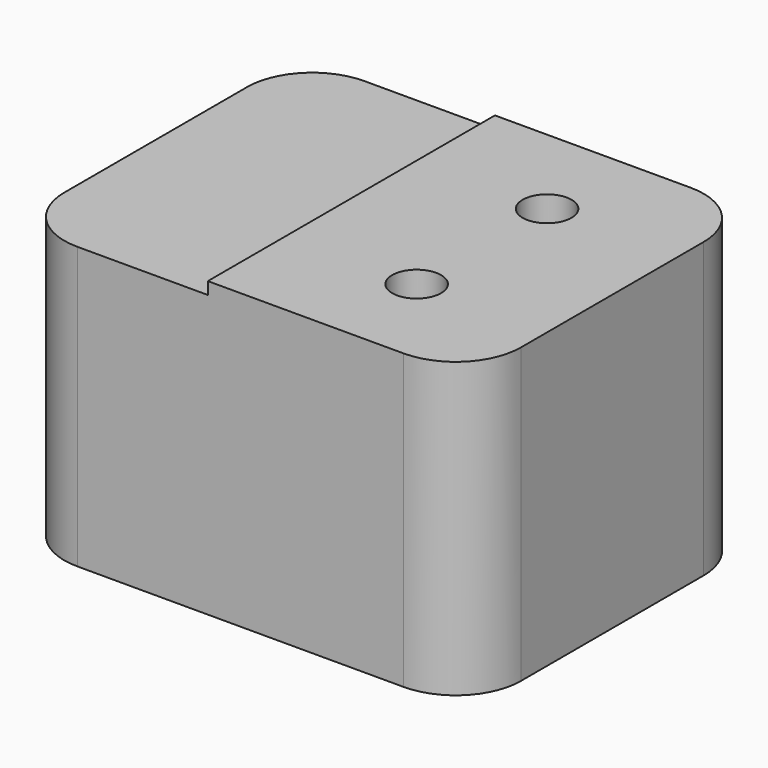
from build123d import *

# Parameters (mm, degrees)
F0_W     = 177.8
F0_H     = 139.7
F1_DEPTH = 114.3
F2_W     = 76.2
F2_H     = 139.7
F3_DEPTH = 4.7625
F4_R     = 9.525
F5_DEPTH = 114.301
F6_R     = 25.4


with BuildPart() as f1:
    # F0 (on Top) → F1 (new body)
    with BuildSketch(Plane.XY):
        with Locations((88.9, 69.85)):
            Rectangle(F0_W, F0_H)
    extrude(amount=F1_DEPTH)

    # F2 (on face) → F3 (cut)
    with BuildSketch(Plane.XY.offset(114.3)):
        with Locations((38.1, 69.85)):
            Rectangle(F2_W, F2_H)
    extrude(amount=-F3_DEPTH, mode=Mode.SUBTRACT)

    # F4 (on face) → F5 (cut, through all)
    with BuildSketch(Plane.XY.offset(114.3)):
        with Locations((127, 101.6)):
            Circle(F4_R)
        with Locations((127, 38.1)):
            Circle(F4_R)
    extrude(amount=-F5_DEPTH, mode=Mode.SUBTRACT)

    # F6
    f6_edges = [f1.edges().sort_by_distance(p)[0] for p in [
        (0, 0, 54.76875),
        (177.8, 0, 57.15),
        (177.8, 139.7, 57.15),
        (0, 139.7, 54.76875),
    ]]
    fillet(f6_edges, radius=F6_R)


solid = f1.part
